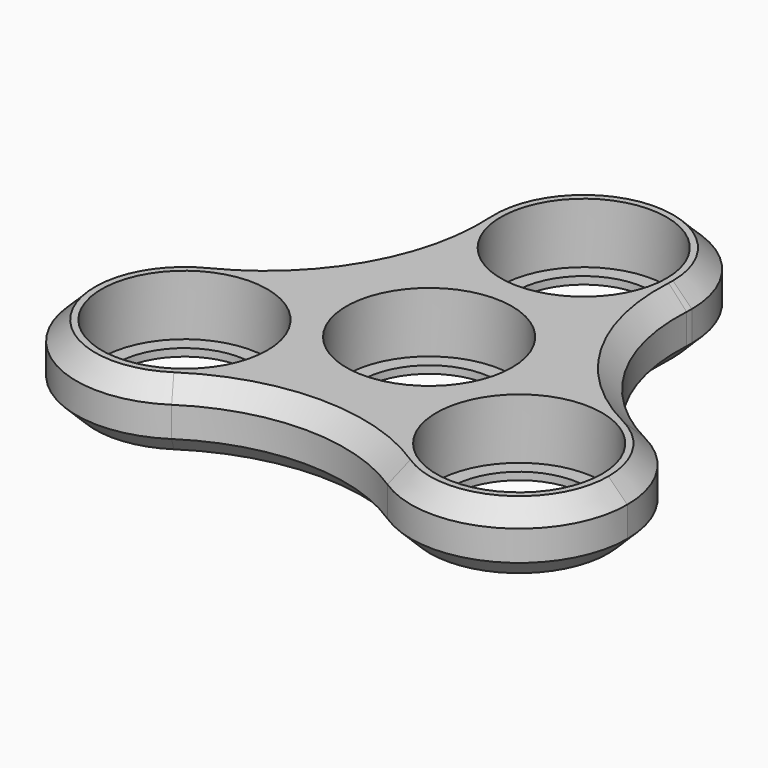
from build123d import *

# Parameters (mm, degrees)
F0_R     = 11
F1_DEPTH = 9
F2_SIZE  = 2.5
F3_R     = 11
F3_R_2   = 9
F4_DEPTH = 1


with BuildPart() as f1:
    # F0 (on Top) → F1 (new body)
    with BuildSketch(Plane.XY):
        with BuildLine():
            ThreePointArc((14.325544, 24.81257), (14.343885, 25.231107), (14.35, 25.65))
            ThreePointArc((14.35, 25.65), (-0.418893, 39.993885), (-14.325544, 24.81257))
            ThreePointArc((-14.325544, 24.81257), (0, 11.3), (14.325544, 24.81257))
        make_face()
        with Locations((0, 25.65)):
            Circle(F0_R, mode=Mode.SUBTRACT)
        with BuildLine():
            ThreePointArc((14.325544, 24.81257), (0, 11.3), (-14.325544, 24.81257))
            ThreePointArc((-14.325544, 24.81257), (-17.772678, 10.261061), (-28.651088, 0))
            ThreePointArc((-28.651088, 0), (-14.678837, -0.612278), (-7.863552, -12.825))
            ThreePointArc((-7.863552, -12.825), (-9.581936, -19.63417), (-14.325544, -24.81257))
            ThreePointArc((-14.325544, -24.81257), (0, -20.522121), (14.325544, -24.81257))
            ThreePointArc((14.325544, -24.81257), (9.786087, -5.65), (28.651088, 0))
            ThreePointArc((28.651088, 0), (17.772678, 10.261061), (14.325544, 24.81257))
        make_face()
        Circle(F0_R, mode=Mode.SUBTRACT)
        with BuildLine():
            ThreePointArc((-7.863552, -12.825), (-14.678837, -0.612278), (-28.651088, 0))
            ThreePointArc((-28.651088, 0), (-34.641016, -20), (-14.325544, -24.81257))
            ThreePointArc((-14.325544, -24.81257), (-9.581936, -19.63417), (-7.863552, -12.825))
        make_face()
        with Locations((-22.213552, -12.825)):
            Circle(F0_R, mode=Mode.SUBTRACT)
        with BuildLine():
            ThreePointArc((36.563552, -12.825), (34.426273, -5.290285), (28.651088, 0))
            ThreePointArc((28.651088, 0), (9.786087, -5.65), (14.325544, -24.81257))
            ThreePointArc((14.325544, -24.81257), (29.022722, -25.456615), (36.563552, -12.825))
        make_face()
        with Locations((22.213552, -12.825)):
            Circle(F0_R, mode=Mode.SUBTRACT)
    extrude(amount=F1_DEPTH)

    # F2
    f2_edges = [f1.edges().sort_by_distance(p)[0] for p in [
        (17.772678, 10.261061, 9),
        (17.772678, 10.261061, 0),
    ]]
    chamfer(f2_edges, length=F2_SIZE)

    # F3 (on face) → F4 (join)
    with BuildSketch(Plane(origin=(0, 0, 0), x_dir=(1, 0, 0), z_dir=(0, 0, -1))):
        with Locations((22.213552, 12.825)):
            Circle(F3_R)
        with Locations((22.213552, 12.825)):
            Circle(F3_R_2, mode=Mode.SUBTRACT)
        with Locations((-22.213552, 12.825)):
            Circle(F3_R)
        with Locations((-22.213552, 12.825)):
            Circle(F3_R_2, mode=Mode.SUBTRACT)
        Circle(F3_R)
        Circle(F3_R_2, mode=Mode.SUBTRACT)
        with Locations((0, -25.65)):
            Circle(F3_R)
        with Locations((0, -25.65)):
            Circle(F3_R_2, mode=Mode.SUBTRACT)
    extrude(amount=-F4_DEPTH)


solid = f1.part
